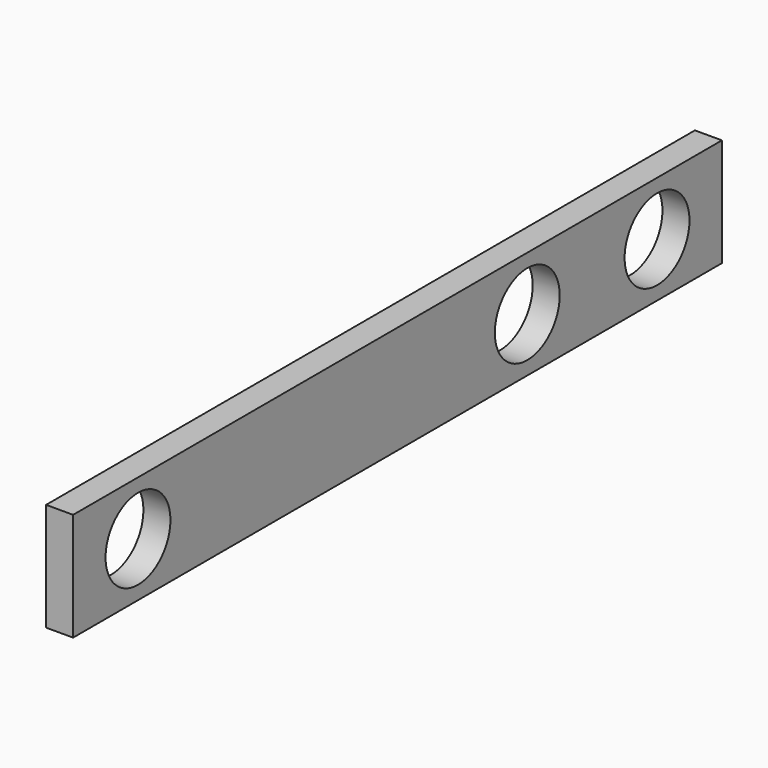
from build123d import *

# Parameters (mm, degrees)
F0_W     = 609.6
F0_H     = 101.6
F1_DEPTH = 12.7
F2_R     = 38.1
F3_DEPTH = 25.4
F4_DEPTH = 152.4
F5_R     = 38.1
F6_DEPTH = 25.4


with BuildPart() as f1:
    # F0 (on Right) → F1 (new body, symmetric)
    with BuildSketch(Plane.YZ):
        Rectangle(F0_W, F0_H)
    extrude(amount=F1_DEPTH, both=True)

    # F2 (on face) → F3 (cut)
    with BuildSketch(Plane.YZ.offset(12.7)):
        with Locations((-228.6, 0)):
            Circle(F2_R)
        with Locations((228.6, 0)):
            Circle(F2_R)
    extrude(amount=-F3_DEPTH, mode=Mode.SUBTRACT)

    # F4 (add): a face of the model
    f4_faces = [f1.faces().sort_by_distance(p)[0] for p in [
        (0, 304.8, 0),
    ]]
    extrude(f4_faces, amount=F4_DEPTH)

    # F5 (on face) → F6 (cut)
    with BuildSketch(Plane.YZ.offset(12.7)):
        with Locations((381, 0)):
            Circle(F5_R)
    extrude(amount=-F6_DEPTH, mode=Mode.SUBTRACT)


solid = f1.part
